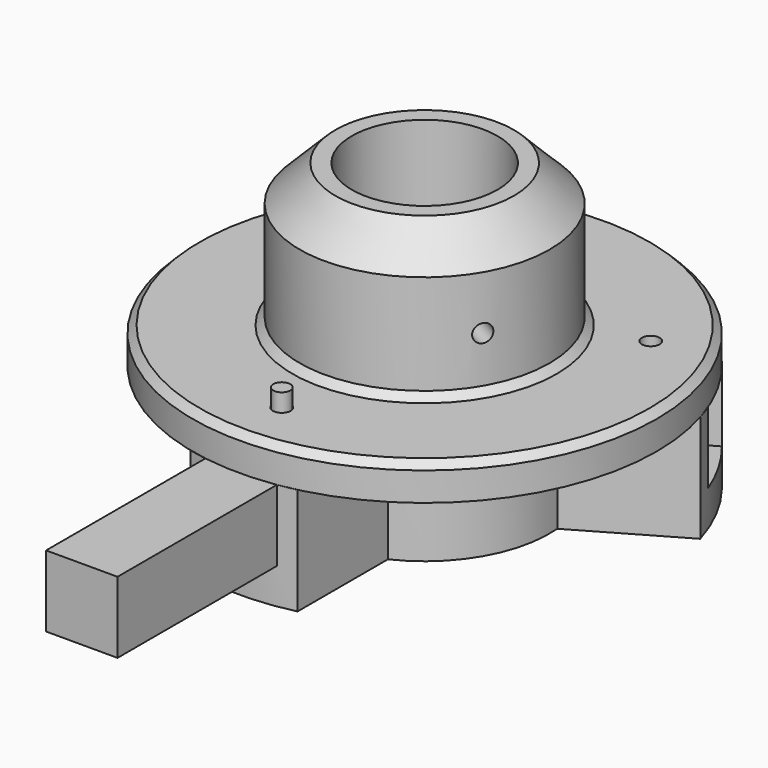
from build123d import *

# Parameters (mm, degrees)
SKETCH_R        = 20.4
PAD_DEPTH       = 30
SKETCH012_W     = 20
SKETCH012_H     = 45
POCKET010_DEPTH = 20
SKETCH010_R     = 2.5
POCKET008_DEPTH = 30.001
POCKET009_DEPTH = 4.5
SKETCH004_R     = 65
SKETCH004_R_2   = 20.4
PAD001_DEPTH    = 10
SKETCH002_R     = 35
SKETCH002_R_2   = 20.4
PAD002_DEPTH    = 40
CHAMFER_SIZE    = 2
CHAMFER001_SIZE = 10
COPYSKETCH006_R = 2.5
POCKET001_DEPTH = 88.792651
COPYSKETCH007_R = 2.5
POCKET002_DEPTH = 88.792651
COPYSKETCH008_R = 2.5
POCKET003_DEPTH = 65.001
POCKET004_DEPTH = 24.9
POCKET005_DEPTH = 24.9
POCKET006_DEPTH = 24.9
SKETCH009_R     = 2.5
POCKET007_DEPTH = 80.001
BOX_W           = 20
BOX_H           = 100
BOX_DEPTH       = 20
CYLINDER_R      = 2.4
CYLINDER_DEPTH  = 45


with BuildPart() as bottombody:
    # Sketch → Pad (new body)
    with BuildSketch(Plane.XY):
        with BuildLine():
            ThreePointArc((15, -31.622777), (30.310889, -17.5), (34.886128, 2.821007))
            Line((62.272256, 18.632396), (34.886128, 2.821007))
            ThreePointArc((62.272256, 18.632396), (56.291651, 32.5), (47.272256, 44.613158))
            Line((19.886128, 28.801769), (47.272256, 44.613158))
            ThreePointArc((19.886128, 28.801769), (0, 35), (-19.886128, 28.801769))
            Line((-47.272256, 44.613158), (-19.886128, 28.801769))
            ThreePointArc((-47.272256, 44.613158), (-56.291651, 32.5), (-62.272256, 18.632396))
            Line((-34.886128, 2.821007), (-62.272256, 18.632396))
            ThreePointArc((-34.886128, 2.821007), (-30.310889, -17.5), (-15, -31.622777))
            Line((-15, -31.622777), (-15, -63.245553))
            ThreePointArc((-15, -63.245553), (0, -65), (15, -63.245553))
            Line((15, -63.245553), (15, -31.622777))
        make_face()
        Circle(SKETCH_R, mode=Mode.SUBTRACT)
    extrude(amount=PAD_DEPTH)

    # Sketch012 (on Face15 of Pad) → Pocket010 (cut)
    with BuildSketch(Plane.XY.offset(30)):
        with Locations((0, -47.5)):
            Rectangle(SKETCH012_W, SKETCH012_H)
        Polygon((26.650635, 3.839746), (65.621778, 26.339746), (55.621778, 43.660254), (16.650635, 21.160254), align=None)
        Polygon((-16.650635, 21.160254), (-55.621778, 43.660254), (-65.621778, 26.339746), (-26.650635, 3.839746), align=None)
    extrude(amount=-POCKET010_DEPTH, mode=Mode.SUBTRACT)

    # Sketch010 → Pocket008 (cut, through all)
    with BuildSketch(Plane.XY):
        with Locations((0, -50)):
            Circle(SKETCH010_R)
        with Locations((-43.30127, 25)):
            Circle(SKETCH010_R)
        with Locations((43.30127, 25)):
            Circle(SKETCH010_R)
    extrude(amount=POCKET008_DEPTH, mode=Mode.SUBTRACT)

    # Sketch011 → Pocket009 (cut)
    with BuildSketch(Plane.XY):
        Polygon((0, -45.35), (-4.027018, -47.675), (-4.027018, -52.325), (0, -54.65), (4.027018, -52.325), (4.027018, -47.675), align=None)
        Polygon((-39.274252, 22.675), (-39.274252, 27.325), (-43.30127, 29.65), (-47.328288, 27.325), (-47.328288, 22.675), (-43.30127, 20.35), align=None)
        Polygon((39.274252, 22.675), (43.30127, 20.35), (47.328288, 22.675), (47.328288, 27.325), (43.30127, 29.65), (39.274252, 27.325), align=None)
    extrude(amount=POCKET009_DEPTH, mode=Mode.SUBTRACT)


with BuildPart() as topbody:
    # Sketch004 → Pad001 (new body)
    with BuildSketch(Plane.XY.offset(30)):
        Circle(SKETCH004_R)
        Circle(SKETCH004_R_2, mode=Mode.SUBTRACT)
    extrude(amount=PAD001_DEPTH)

    # Sketch002 (on Face4 of Pad001) → Pad002 (join)
    with BuildSketch(Plane.XY.offset(40)):
        Circle(SKETCH002_R)
        Circle(SKETCH002_R_2, mode=Mode.SUBTRACT)
    extrude(amount=PAD002_DEPTH)

    # Chamfer
    chamfer_edges = [topbody.edges().sort_by_distance(p)[0] for p in [
        (-65, 0, 40),
        (-35, 0, 40),
    ]]
    chamfer(chamfer_edges, length=CHAMFER_SIZE)

    # Chamfer001
    chamfer001_edges = [topbody.edges().sort_by_distance(p)[0] for p in [
        (-35, 0, 80),
    ]]
    chamfer(chamfer001_edges, length=CHAMFER001_SIZE)

    # CopySketch006 (on Z_Axis) → Pocket001 (cut, through all)
    with BuildSketch(Plane(origin=(0, 0, 55), x_dir=(0, 0, 1), z_dir=(0.866025, 0.5, 0))):
        Circle(COPYSKETCH006_R)
    extrude(amount=-POCKET001_DEPTH, mode=Mode.SUBTRACT)

    # CopySketch007 (on Z_Axis) → Pocket002 (cut, through all)
    with BuildSketch(Plane(origin=(0, 0, 55), x_dir=(0, 0, 1), z_dir=(-0.866025, 0.5, 0))):
        Circle(COPYSKETCH007_R)
    extrude(amount=-POCKET002_DEPTH, mode=Mode.SUBTRACT)

    # CopySketch008 (on Z_Axis) → Pocket003 (cut, through all)
    with BuildSketch(Plane(origin=(0, 0, 55), x_dir=(0, 0, 1), z_dir=(0, -1, 0))):
        Circle(COPYSKETCH008_R)
    extrude(amount=-POCKET003_DEPTH, mode=Mode.SUBTRACT)

    # Sketch006 (on Z_Axis) → Pocket004 (cut)
    with BuildSketch(Plane(origin=(0, 0, 55), x_dir=(0, 0, 1), z_dir=(0, 1, 0))):
        Polygon((4.65, 0), (2.325, 4.027018), (-2.325, 4.027018), (-4.65, 0), (-2.325, -4.027018), (2.325, -4.027018), align=None)
    extrude(amount=POCKET004_DEPTH, mode=Mode.SUBTRACT)

    # Sketch007 (on Z_Axis) → Pocket005 (cut)
    with BuildSketch(Plane(origin=(0, 0, 55), x_dir=(0, 0, 1), z_dir=(-0.866025, 0.5, 0))):
        Polygon((4.65, 0), (2.325, 4.027018), (-2.325, 4.027018), (-4.65, 0), (-2.325, -4.027018), (2.325, -4.027018), align=None)
    extrude(amount=-POCKET005_DEPTH, mode=Mode.SUBTRACT)

    # Sketch008 (on Z_Axis) → Pocket006 (cut)
    with BuildSketch(Plane(origin=(0, 0, 55), x_dir=(0, 0, 1), z_dir=(0.866025, 0.5, 0))):
        Polygon((4.65, 0), (2.325, 4.027018), (-2.325, 4.027018), (-4.65, 0), (-2.325, -4.027018), (2.325, -4.027018), align=None)
    extrude(amount=-POCKET006_DEPTH, mode=Mode.SUBTRACT)

    # Sketch009 → Pocket007 (cut, through all)
    with BuildSketch(Plane.XY):
        with Locations((0, -50)):
            Circle(SKETCH009_R)
        with Locations((-43.30127, 25)):
            Circle(SKETCH009_R)
        with Locations((43.30127, 25)):
            Circle(SKETCH009_R)
    extrude(amount=POCKET007_DEPTH, mode=Mode.SUBTRACT)


with BuildPart() as profile:
    # Box → Box (new body)
    with BuildSketch(Plane(origin=(-10, -120, 10), x_dir=(1, 0, 0), z_dir=(0, 0, 1))):
        with Locations((10, 50)):
            Rectangle(BOX_W, BOX_H)
    extrude(amount=BOX_DEPTH)


with BuildPart() as obj1:
    # Cylinder → Cylinder (new body)
    with BuildSketch(Plane(origin=(0, -50, 0), x_dir=(1, 0, 0), z_dir=(0, 0, 1))):
        Circle(CYLINDER_R)
    extrude(amount=CYLINDER_DEPTH)


solid = Compound([bottombody.part, topbody.part, profile.part, obj1.part])
